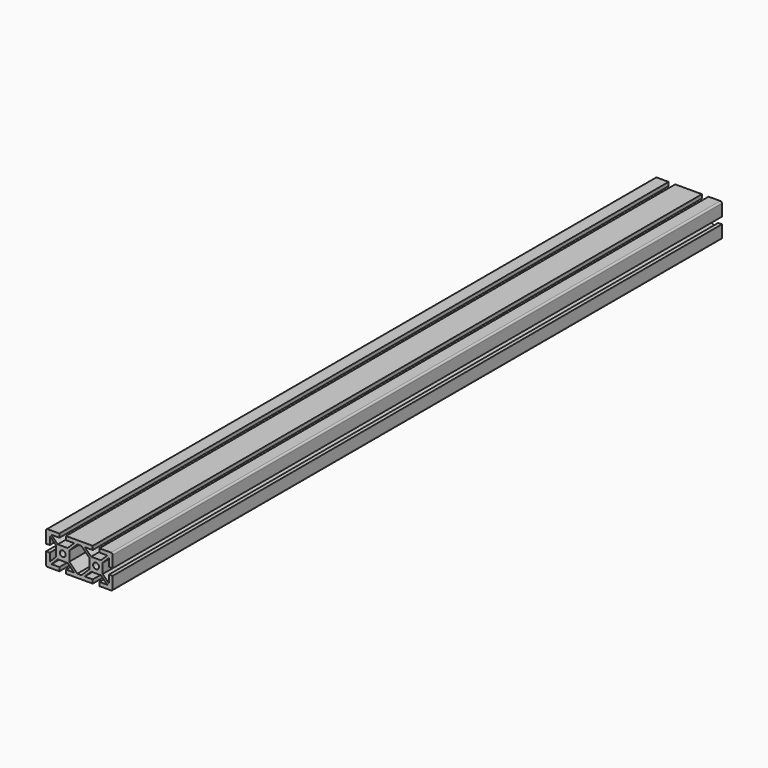
from build123d import *

# Parameters (mm, degrees)
F0_R     = 3.5
F1_DEPTH = 914.4


with BuildPart() as f1:
    # F0 (on Front) → F1 (new body)
    with BuildSketch(Plane.XZ):
        with BuildLine():
            Line((-24, 20), (-38, 20))
            ThreePointArc((-38, 20), (-39.414214, 19.414214), (-40, 18))
            Line((-40, 18), (-40, 4))
            Line((-40, 4), (-35.5, 4))
            Line((-35.5, 4), (-35.5, 13.542778))
            Line((-35.5, 13.542778), (-27.897601, 5.94038))
            Line((-27.897601, 5.94038), (-27.897601, -5.94038))
            Line((-27.897601, -5.94038), (-35.5, -13.542778))
            Line((-35.5, -13.542778), (-35.5, -4))
            Line((-35.5, -4), (-40, -4))
            Line((-40, -4), (-40, -18))
            ThreePointArc((-40, -18), (-39.414214, -19.414214), (-38, -20))
            Line((-38, -20), (-24, -20))
            Line((-24, -20), (-24, -15.5))
            Line((-24, -15.5), (-33.542778, -15.5))
            Line((-33.542778, -15.5), (-25.94038, -7.897601))
            Line((-25.94038, -7.897601), (-14.05962, -7.897601))
            Line((-14.05962, -7.897601), (-6.457222, -15.5))
            Line((-6.457222, -15.5), (-16, -15.5))
            Line((-16, -15.5), (-16, -20))
            Line((-16, -20), (16, -20))
            Line((16, -20), (16, -15.5))
            Line((16, -15.5), (6.457222, -15.5))
            Line((6.457222, -15.5), (14.05962, -7.897601))
            Line((14.05962, -7.897601), (25.94038, -7.897601))
            Line((25.94038, -7.897601), (33.542778, -15.5))
            Line((33.542778, -15.5), (24, -15.5))
            Line((24, -15.5), (24, -20))
            Line((24, -20), (38, -20))
            ThreePointArc((38, -20), (39.414214, -19.414214), (40, -18))
            Line((40, -18), (40, -4))
            Line((40, -4), (35.5, -4))
            Line((35.5, -4), (35.5, -13.542778))
            Line((35.5, -13.542778), (27.897601, -5.94038))
            Line((27.897601, -5.94038), (27.897601, 5.94038))
            Line((27.897601, 5.94038), (35.5, 13.542778))
            Line((35.5, 13.542778), (35.5, 4))
            Line((35.5, 4), (40, 4))
            Line((40, 4), (40, 18))
            ThreePointArc((40, 18), (39.414214, 19.414214), (38, 20))
            Line((38, 20), (24, 20))
            Line((24, 20), (24, 15.5))
            Line((24, 15.5), (33.542778, 15.5))
            Line((33.542778, 15.5), (25.94038, 7.897601))
            Line((25.94038, 7.897601), (14.05962, 7.897601))
            Line((14.05962, 7.897601), (6.457222, 15.5))
            Line((6.457222, 15.5), (16, 15.5))
            Line((16, 15.5), (16, 20))
            Line((16, 20), (-16, 20))
            Line((-16, 20), (-16, 15.5))
            Line((-16, 15.5), (-6.457222, 15.5))
            Line((-6.457222, 15.5), (-14.05962, 7.897601))
            Line((-14.05962, 7.897601), (-25.94038, 7.897601))
            Line((-25.94038, 7.897601), (-33.542778, 15.5))
            Line((-33.542778, 15.5), (-24, 15.5))
            Line((-24, 15.5), (-24, 20))
        make_face()
        with Locations((-20, 0)):
            Circle(F0_R, mode=Mode.SUBTRACT)
        Polygon((-12.102399, 5.94038), (-2.542778, 15.5), (2.542778, 15.5), (12.102399, 5.94038), (12.102399, -5.94038), (2.542778, -15.5), (-2.542778, -15.5), (-12.102399, -5.94038), align=None, mode=Mode.SUBTRACT)
        with Locations((20, 0)):
            Circle(F0_R, mode=Mode.SUBTRACT)
        with BuildLine():
            Line((-24, 20), (-38, 20))
            ThreePointArc((-38, 20), (-39.414214, 19.414214), (-40, 18))
            Line((-40, 18), (-40, 4))
            Line((-40, 4), (-35.5, 4))
            Line((-35.5, 4), (-35.5, 13.542778))
            Line((-35.5, 13.542778), (-27.897601, 5.94038))
            Line((-27.897601, 5.94038), (-27.897601, -5.94038))
            Line((-27.897601, -5.94038), (-35.5, -13.542778))
            Line((-35.5, -13.542778), (-35.5, -4))
            Line((-35.5, -4), (-40, -4))
            Line((-40, -4), (-40, -18))
            ThreePointArc((-40, -18), (-39.414214, -19.414214), (-38, -20))
            Line((-38, -20), (-24, -20))
            Line((-24, -20), (-24, -15.5))
            Line((-24, -15.5), (-33.542778, -15.5))
            Line((-33.542778, -15.5), (-25.94038, -7.897601))
            Line((-25.94038, -7.897601), (-14.05962, -7.897601))
            Line((-14.05962, -7.897601), (-6.457222, -15.5))
            Line((-6.457222, -15.5), (-16, -15.5))
            Line((-16, -15.5), (-16, -20))
            Line((-16, -20), (16, -20))
            Line((16, -20), (16, -15.5))
            Line((16, -15.5), (6.457222, -15.5))
            Line((6.457222, -15.5), (14.05962, -7.897601))
            Line((14.05962, -7.897601), (25.94038, -7.897601))
            Line((25.94038, -7.897601), (33.542778, -15.5))
            Line((33.542778, -15.5), (24, -15.5))
            Line((24, -15.5), (24, -20))
            Line((24, -20), (38, -20))
            ThreePointArc((38, -20), (39.414214, -19.414214), (40, -18))
            Line((40, -18), (40, -4))
            Line((40, -4), (35.5, -4))
            Line((35.5, -4), (35.5, -13.542778))
            Line((35.5, -13.542778), (27.897601, -5.94038))
            Line((27.897601, -5.94038), (27.897601, 5.94038))
            Line((27.897601, 5.94038), (35.5, 13.542778))
            Line((35.5, 13.542778), (35.5, 4))
            Line((35.5, 4), (40, 4))
            Line((40, 4), (40, 18))
            ThreePointArc((40, 18), (39.414214, 19.414214), (38, 20))
            Line((38, 20), (24, 20))
            Line((24, 20), (24, 15.5))
            Line((24, 15.5), (33.542778, 15.5))
            Line((33.542778, 15.5), (25.94038, 7.897601))
            Line((25.94038, 7.897601), (14.05962, 7.897601))
            Line((14.05962, 7.897601), (6.457222, 15.5))
            Line((6.457222, 15.5), (16, 15.5))
            Line((16, 15.5), (16, 20))
            Line((16, 20), (-16, 20))
            Line((-16, 20), (-16, 15.5))
            Line((-16, 15.5), (-6.457222, 15.5))
            Line((-6.457222, 15.5), (-14.05962, 7.897601))
            Line((-14.05962, 7.897601), (-25.94038, 7.897601))
            Line((-25.94038, 7.897601), (-33.542778, 15.5))
            Line((-33.542778, 15.5), (-24, 15.5))
            Line((-24, 15.5), (-24, 20))
        make_face()
        with Locations((-20, 0)):
            Circle(F0_R, mode=Mode.SUBTRACT)
        Polygon((-12.102399, 5.94038), (-2.542778, 15.5), (2.542778, 15.5), (12.102399, 5.94038), (12.102399, -5.94038), (2.542778, -15.5), (-2.542778, -15.5), (-12.102399, -5.94038), align=None, mode=Mode.SUBTRACT)
        with Locations((20, 0)):
            Circle(F0_R, mode=Mode.SUBTRACT)
    extrude(amount=-F1_DEPTH)


solid = f1.part
